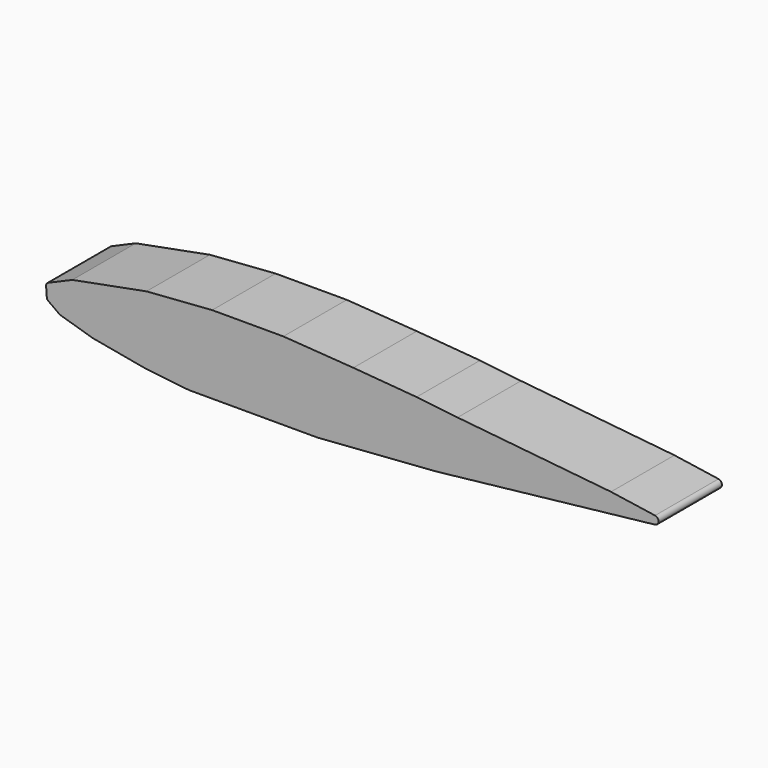
from build123d import *

# Parameters (mm, degrees)
F1_DEPTH = 16.256


with BuildPart() as f1:
    # F0 (on Front) → F1 (new body)
    with BuildSketch(Plane.XZ):
        with BuildLine():
            Line((28.143601, -4.015312), (72.878021, 0.966032))
            ThreePointArc((72.878021, 0.966032), (73.619241, 1.779296), (72.908229, 2.619097))
            Line((72.908229, 2.619097), (63.875571, 3.960609))
            Line((63.875571, 3.960609), (32.397412, 7.150929))
            Line((32.397412, 7.150929), (23.996145, 8.108036))
            Line((23.996145, 8.108036), (11.022037, 9.171487))
            Line((11.022037, 9.171487), (-3.334556, 10.167787))
            Line((-3.334556, 10.167787), (-17.930318, 10.167787))
            Line((-17.930318, 10.167787), (-31.409673, 9.171487))
            Line((-31.409673, 9.171487), (-46.617027, 6.300168))
            Line((-46.617027, 6.300168), (-51.580224, 4.159032))
            ThreePointArc((-51.580224, 4.159032), (-51.903267, 3.877636), (-52.003247, 3.461049))
            Line((-52.003247, 3.461049), (-51.852139, 1.416633))
            ThreePointArc((-51.852139, 1.416633), (-51.764412, 1.124815), (-51.561539, 0.897447))
            Line((-51.561539, 0.897447), (-49.169309, -0.824956))
            Line((-49.169309, -0.824956), (-42.469569, -2.845514))
            Line((-42.469569, -2.845514), (-31.409673, -4.866071))
            Line((-31.409673, -4.866071), (-22.689372, -5.823179))
            Line((-22.689372, -5.823179), (3.68422, -5.823179))
            Line((3.68422, -5.823179), (28.143601, -4.015312))
        make_face()
    extrude(amount=F1_DEPTH)


solid = f1.part
